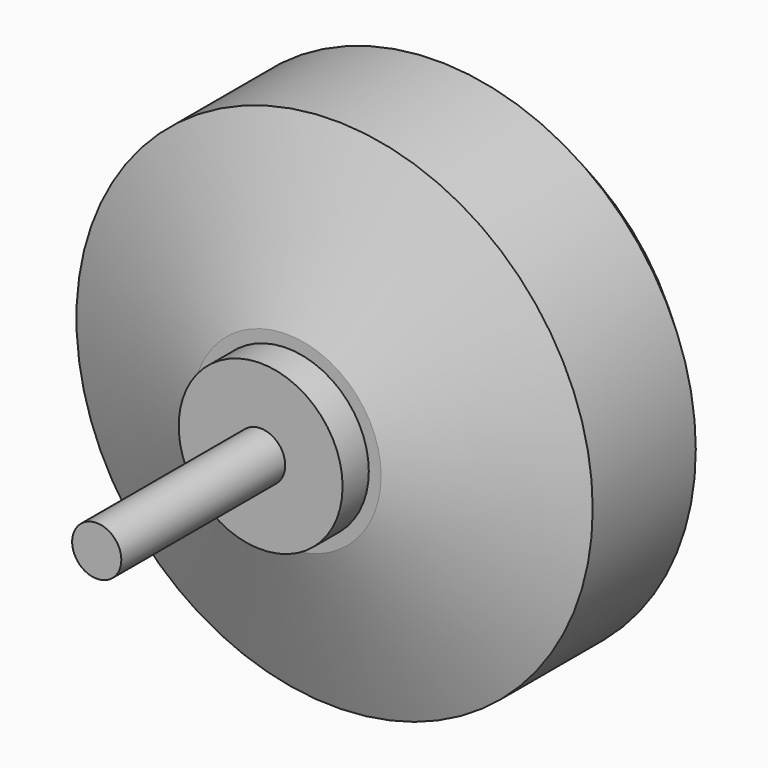
from build123d import *

# Parameters (mm, degrees)
F0_R     = 31.5
F1_DEPTH = 28
F2_SIZE2 = 20
F2_SIZE  = 7.2794046853
F3_SIZE  = 5
F4_R     = 10
F5_DEPTH = 4
F6_R     = 3
F7_DEPTH = 25


with BuildPart() as f1:
    # F0 (on Front) → F1 (new body)
    with BuildSketch(Plane.XZ):
        Circle(F0_R)
    extrude(amount=F1_DEPTH)

    # F2
    f2_edges = [f1.edges().sort_by_distance(p)[0] for p in [
        (-31.5, -28, 0),
    ]]
    f2_side = f1.faces().sort_by_distance((-31.5, -14, 0))[0]
    chamfer(f2_edges, length=F2_SIZE, length2=F2_SIZE2, reference=f2_side)

    # F3
    f3_edges = [f1.edges().sort_by_distance(p)[0] for p in [
        (-31.5, 0, 0),
    ]]
    chamfer(f3_edges, length=F3_SIZE)

    # F4 (on face) → F5 (join)
    with BuildSketch(Plane.XZ.offset(28)):
        Circle(F4_R)
    extrude(amount=F5_DEPTH)

    # F6 (on face) → F7 (join)
    with BuildSketch(Plane.XZ.offset(32)):
        Circle(F6_R)
    extrude(amount=F7_DEPTH)


solid = f1.part
